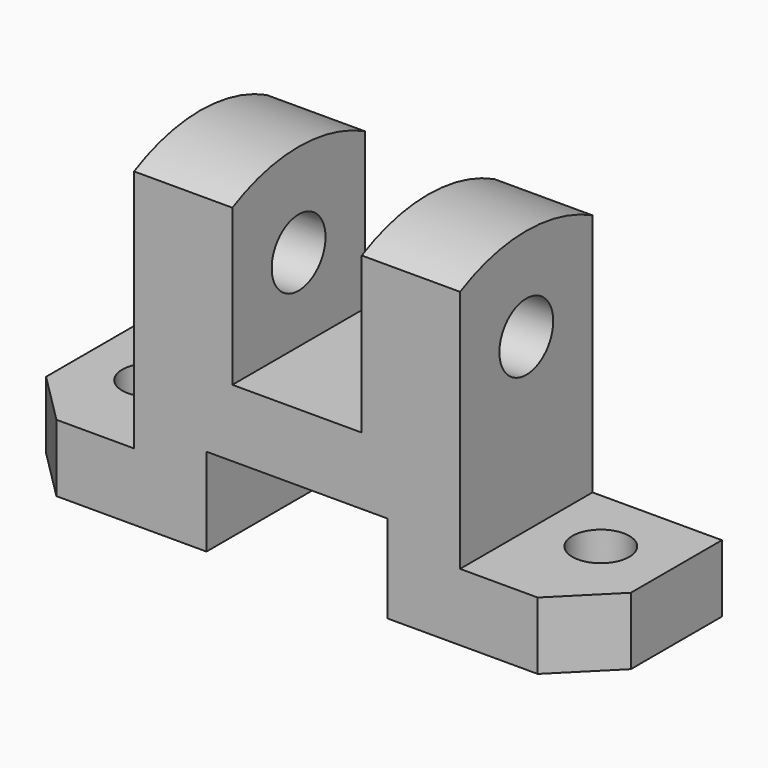
from build123d import *

# Parameters (mm, degrees)
F1_DEPTH  = 32
F3_DEPTH  = 25
F5_DEPTH  = 25
F7_DEPTH  = 19
F9_DEPTH  = 19
F10_R     = 6.5
F11_DEPTH = 100
F12_R     = 5.5
F13_DEPTH = 25
F14_R     = 5.5
F15_DEPTH = 25


with BuildPart() as f1:
    # F0 (on Front) → F1 (new body)
    with BuildSketch(Plane.XZ):
        Polygon((0, 13), (0, 0), (39, 0), (39, 17), (74, 17), (74, 0), (113, 0), (113, 13), (88, 13), (88, 30), (39, 30), (25, 30), (25, 13), align=None)
    extrude(amount=-F1_DEPTH)

    # F2 (on face) → F3 (cut)
    with BuildSketch(Plane.XY.offset(13)):
        Polygon((113, 10), (103, 0), (113, 0), align=None)
    extrude(amount=-F3_DEPTH, mode=Mode.SUBTRACT)

    # F4 (on face) → F5 (cut)
    with BuildSketch(Plane.XY.offset(13)):
        Polygon((0, 0), (10, 0), (0, 10), align=None)
    extrude(amount=-F5_DEPTH, mode=Mode.SUBTRACT)

    # F6 (on face) → F7 (join)
    with BuildSketch(Plane.YZ.offset(88)):
        with BuildLine():
            Line((0, 60.128765), (0, 30))
            Line((0, 30), (32, 30))
            Line((32, 30), (32, 60.128765))
            ThreePointArc((32, 60.128765), (16, 64), (0, 60.128765))
        make_face()
    extrude(amount=-F7_DEPTH)

    # F8 (on face) → F9 (join)
    with BuildSketch(Plane(origin=(25, 0, 0), x_dir=(0, -1, 0), z_dir=(-1, 0, 0))):
        with BuildLine():
            Line((-32, 60.128765), (-32, 30))
            Line((-32, 30), (0, 30))
            Line((0, 30), (0, 60.128765))
            ThreePointArc((0, 60.128765), (-16, 64), (-32, 60.128765))
        make_face()
    extrude(amount=-F9_DEPTH)

    # F10 (on face) → F11 (cut)
    with BuildSketch(Plane.YZ.offset(88)):
        with Locations((16, 46)):
            Circle(F10_R)
    extrude(amount=-F11_DEPTH, mode=Mode.SUBTRACT)

    # F12 (on face) → F13 (cut)
    with BuildSketch(Plane.XY.offset(13)):
        with Locations((100, 19)):
            Circle(F12_R)
    extrude(amount=-F13_DEPTH, mode=Mode.SUBTRACT)

    # F14 (on face) → F15 (cut)
    with BuildSketch(Plane.XY.offset(13)):
        with Locations((13, 19)):
            Circle(F14_R)
    extrude(amount=-F15_DEPTH, mode=Mode.SUBTRACT)


solid = f1.part
